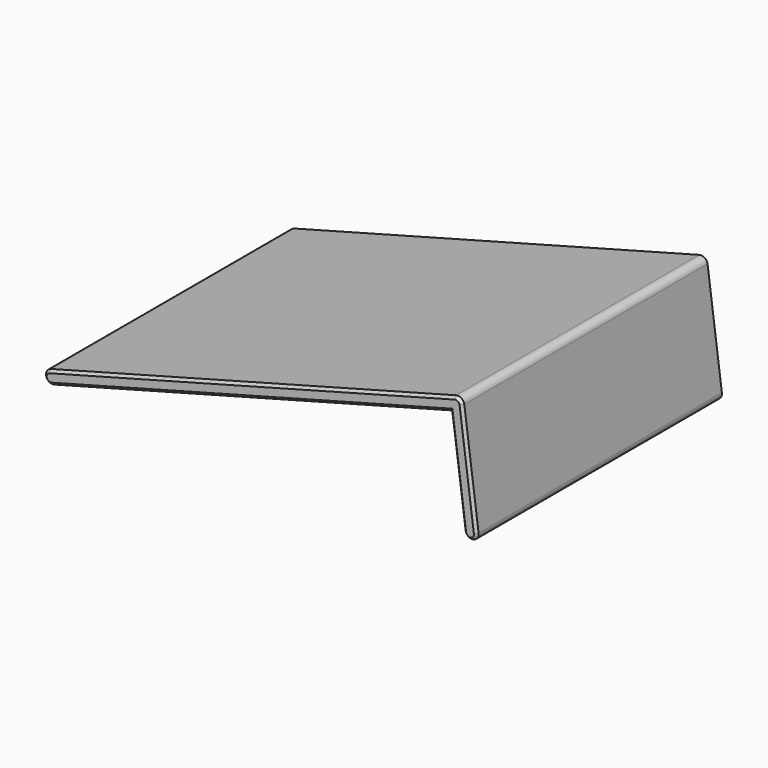
from build123d import *

# Parameters (mm, degrees)
F1_DEPTH = 118
F2_SIZE  = 1


with BuildPart() as f1:
    # F0 (on Front) → F1 (new body)
    with BuildSketch(Plane.XZ):
        with BuildLine():
            ThreePointArc((-12.9717128781, 4.9148145657), (-14.8032774188, 2.1736845194), (-12.3246652653, 0))
            Line((-12.3246652653, 0), (-11.9955340214, 0))
            Line((-11.9955340214, 0), (140.1169462795, 40.7584162553))
            Line((140.1169462795, 40.7584162553), (145.1967225812, 2.1736845194))
            ThreePointArc((145.1967225812, 2.1736845194), (146.0269701969, 0.6204004813), (147.6753347347, 0))
            ThreePointArc((147.6753347347, 0), (149.5549342534, 0.8516354622), (150.1539468881, 2.8263154806))
            Line((150.1539468881, 2.8263154805), (144.7020790944, 44.237362697))
            ThreePointArc((144.7020790944, 44.237362697), (143.6123925235, 45.9897212472), (141.5764193282, 46.3258617821))
            Line((141.5764193282, 46.3258617821), (-12.9717128781, 4.9148145657))
        make_face()
    extrude(amount=F1_DEPTH)

    # F2
    f2_edges = [f1.edges().sort_by_distance(p)[0] for p in [
        (64.302353, -118, 25.620338),
        (-14.803277, -118, 2.173685),
        (-12.1601, -118, 0),
        (64.060706, -118, 20.379208),
        (142.656834, -118, 21.46605),
        (148.00165, -118, 0.021388),
        (147.428013, -118, 23.531839),
        (143.612393, -118, 45.989721),
        (64.302353, 0, 25.620338),
        (-14.803277, 0, 2.173685),
        (-12.1601, 0, 0),
        (64.060706, 0, 20.379208),
        (142.656834, 0, 21.46605),
        (148.00165, 0, 0.021388),
        (147.428013, 0, 23.531839),
        (143.612393, 0, 45.989721),
    ]]
    chamfer(f2_edges, length=F2_SIZE)


solid = f1.part
